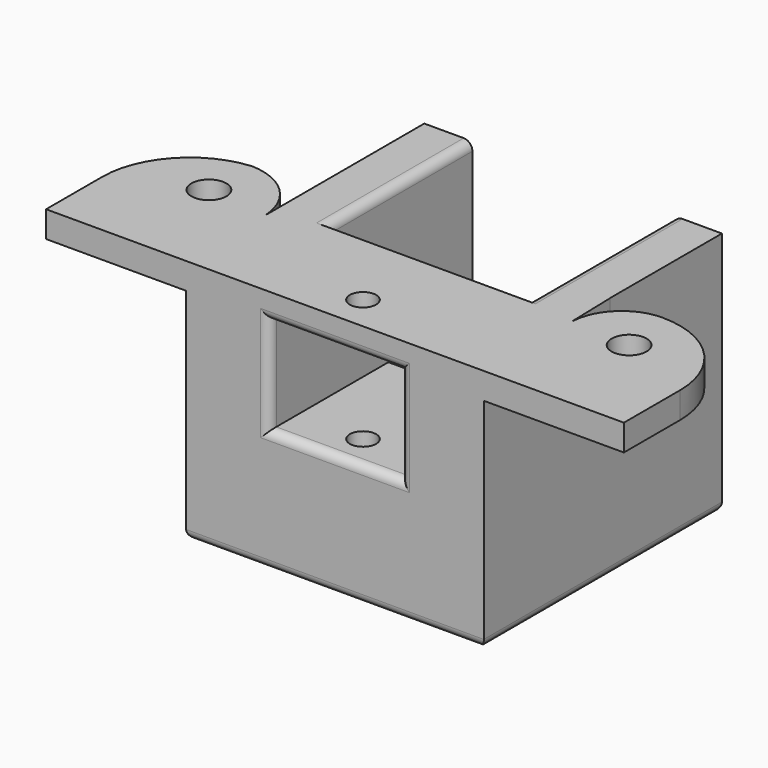
from build123d import *

# Parameters (mm, degrees)
F0_W      = 34
F0_H      = 28
F1_DEPTH  = 34
F3_R      = 1.5
F4_DEPTH  = 12
F5_W      = 8
F5_H      = 6
F6_DEPTH  = 17
F2_R      = 1.5
F7_DEPTH  = 28.001
F8_W      = 23
F8_H      = 3
F9_DEPTH  = 4
F10_W     = 15
F10_H     = 11
F11_DEPTH = 17.001
F12_W     = 18
F12_H     = 3
F13_DEPTH = 16
F14_W     = 18
F14_H     = 3
F15_DEPTH = 16
F16_R     = 10
F17_R     = 2
F18_DEPTH = 25
F19_R     = 1


with BuildPart() as f1:
    # F0 (on Front) → F1 (new body)
    with BuildSketch(Plane.XZ):
        with Locations((0.991450157, 2.6100003274)):
            Rectangle(F0_W, F0_H)
    extrude(amount=F1_DEPTH)

    # F3 (on face) → F4 (cut)
    with BuildSketch(Plane(origin=(0, 0, -11.3899996726), x_dir=(1, 0, 0), z_dir=(0, 0, -1))):
        with Locations((-13.008549843, 22)):
            Circle(F3_R)
        with Locations((14.991450157, 22)):
            Circle(F3_R)
    extrude(amount=-F4_DEPTH, mode=Mode.SUBTRACT)

    # F5 (on face) → F6 (cut)
    with BuildSketch(Plane(origin=(0, 0, 0), x_dir=(-1, 0, 0), z_dir=(0, 1, 0))):
        Polygon((10.508549843, 16.6100003274), (-12.491450157, 16.6100003274), (-12.491450157, -5.3899996726), (-4.991450157, -5.3899996726), (3.008549843, -5.3899996726), (10.508549843, -5.3899996726), align=None)
        with Locations((-0.991450157, -8.3899996726)):
            Rectangle(F5_W, F5_H)
    extrude(amount=-F6_DEPTH, mode=Mode.SUBTRACT)

    # F2 (on face) → F7 (cut, through all)
    with BuildSketch(Plane.XY.offset(16.6100003274)):
        with Locations((0.991450157, -30)):
            Circle(F2_R)
    extrude(amount=-F7_DEPTH, mode=Mode.SUBTRACT)

    # F8 (on face) → F9 (cut)
    with BuildSketch(Plane(origin=(0, -17, 0), x_dir=(-1, 0, 0), z_dir=(0, 1, 0))):
        with Locations((-0.991450157, 15.1100003274)):
            Rectangle(F8_W, F8_H)
    extrude(amount=-F9_DEPTH, mode=Mode.SUBTRACT)

    # F10 (on face) → F11 (cut, through all)
    with BuildSketch(Plane(origin=(0, -17, 0), x_dir=(-1, 0, 0), z_dir=(0, 1, 0))):
        with Locations((-0.991450157, 8.1100003274)):
            Rectangle(F10_W, F10_H)
    extrude(amount=-F11_DEPTH, mode=Mode.SUBTRACT)

    # F12 (on face) → F13 (join)
    with BuildSketch(Plane(origin=(-16.008549843, 0, 0), x_dir=(0, -1, 0), z_dir=(-1, 0, 0))):
        with Locations((25, 15.1100003274)):
            Rectangle(F12_W, F12_H)
    extrude(amount=F13_DEPTH)

    # F14 (on face) → F15 (join)
    with BuildSketch(Plane.YZ.offset(17.991450157)):
        with Locations((-25, 15.1100003274)):
            Rectangle(F14_W, F14_H)
    extrude(amount=F15_DEPTH)

    # F16
    f16_edges = [f1.edges().sort_by_distance(p)[0] for p in [
        (33.99145, -16, 15.11),
        (-32.00855, -16, 15.11),
    ]]
    fillet(f16_edges, radius=F16_R)

    # F17 (on face) → F18 (cut)
    with BuildSketch(Plane.XY.offset(16.6100003274)):
        with Locations((-23.008549843, -22)):
            Circle(F17_R)
        with Locations((24.991450157, -22)):
            Circle(F17_R)
        with BuildLine():
            Line((-16.008549843, -22.7352958173), (-16.008549843, -16))
            Line((-16.008549843, -16), (-22.008549843, -16))
            ThreePointArc((-22.008549843, -16), (-22.4260025255, -16.0087171365), (-22.8427274097, -16.0348533484))
            ThreePointArc((-22.8427274097, -16.0348533484), (-18.1144410308, -18.0477066054), (-16.008549843, -22.7352958173))
        make_face()
        with BuildLine():
            Line((18.007015779, -16), (18.1666726931, -21.9172614151))
            ThreePointArc((18.1666726931, -21.9172614151), (19.839883731, -17.7388207651), (23.991450157, -16))
            Line((23.991450157, -16), (18.007015779, -16))
        make_face()
    extrude(amount=-F18_DEPTH, mode=Mode.SUBTRACT)

    # F19
    f19_edges = [f1.edges().sort_by_distance(p)[0] for p in [
        (-16.00855, -17, -11.39),
        (17.99145, -17, -11.39),
        (4.99145, -8.5, -5.39),
        (-3.00855, -8.5, -5.39),
        (4.99145, -8.5, -11.39),
        (-3.00855, -8.5, -11.39),
        (12.49145, -10.5, 16.61),
        (-10.50855, -10.5, 16.61),
        (0.99145, -34, 2.61),
        (8.49145, -34, 8.11),
        (0.99145, -34, 13.61),
        (-6.50855, -34, 8.11),
        (-8.50855, -17, 13.61),
        (10.49145, -17, 13.61),
        (0.99145, -34, -11.39),
        (-9.50855, 0, -11.39),
        (11.49145, 0, -11.39),
    ]]
    fillet(f19_edges, radius=F19_R)


solid = f1.part
